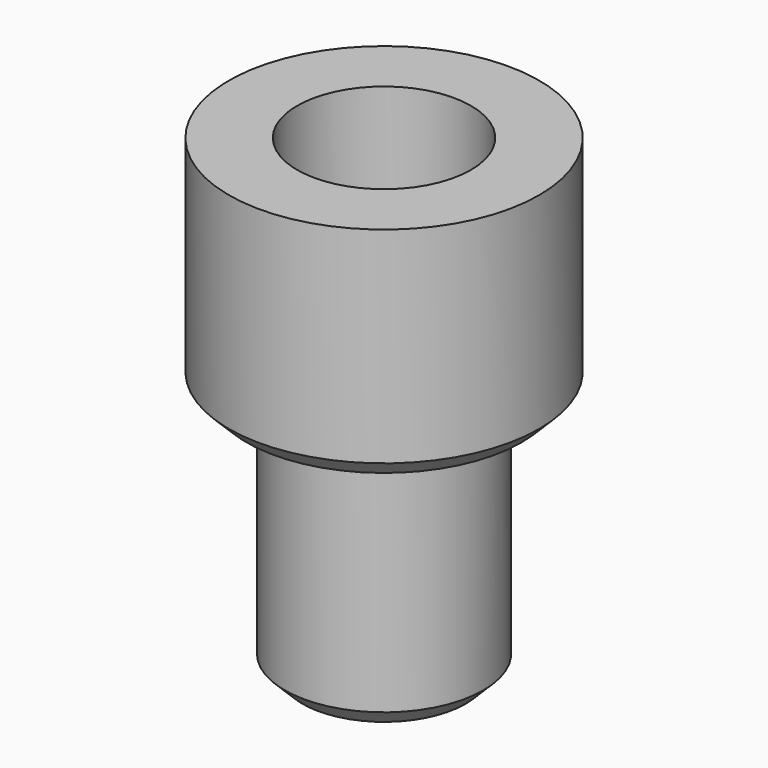
from build123d import *

# Parameters (mm, degrees)
F0_R     = 6.25
F1_DEPTH = 9
F2_R     = 3.5
F3_DEPTH = 7
F4_R     = 4
F5_DEPTH = 10
F6_R     = 2
F7_DEPTH = 12
F8_SIZE2 = 0.71
F8_SIZE  = 0.71
F9_SIZE2 = 0.71
F9_SIZE  = 0.71


with BuildPart() as f1:
    # F0 (on Top) → F1 (new body)
    with BuildSketch(Plane.XY):
        Circle(F0_R)
    extrude(amount=F1_DEPTH)

    # F2 (on face) → F3 (cut)
    with BuildSketch(Plane.XY.offset(9)):
        Circle(F2_R)
    extrude(amount=-F3_DEPTH, mode=Mode.SUBTRACT)

    # F4 (on face) → F5 (join)
    with BuildSketch(Plane(origin=(0, 0, 0), x_dir=(1, 0, 0), z_dir=(0, 0, -1))):
        Circle(F4_R)
    extrude(amount=F5_DEPTH)

    # F6 (on face) → F7 (cut)
    with BuildSketch(Plane(origin=(0, 0, -10), x_dir=(1, 0, 0), z_dir=(0, 0, -1))):
        Circle(F6_R)
    extrude(amount=-F7_DEPTH, mode=Mode.SUBTRACT)

    # F8
    f8_edges = [f1.edges().sort_by_distance(p)[0] for p in [
        (-6.25, 0, 0),
    ]]
    chamfer(f8_edges, length=F8_SIZE, length2=F8_SIZE2)

    # F9
    f9_edges = [f1.edges().sort_by_distance(p)[0] for p in [
        (-4, 0, -10),
    ]]
    chamfer(f9_edges, length=F9_SIZE, length2=F9_SIZE2)


solid = f1.part
